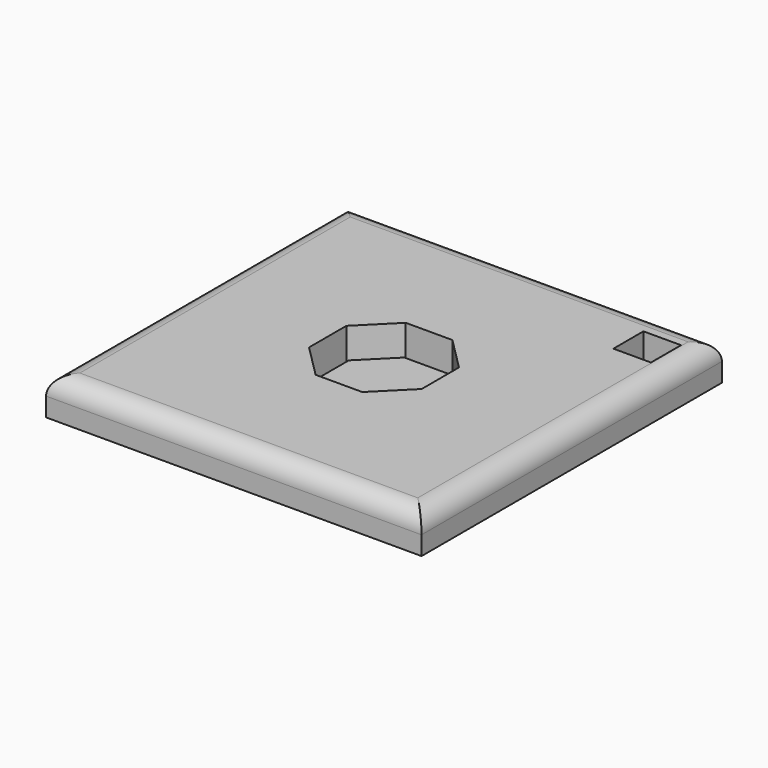
from build123d import *

# Parameters (mm, degrees)
F0_W     = 1000
F0_H     = 1000
F0_W_2   = 100
F0_H_2   = 100
F1_DEPTH = 100
F2_R     = 50
F4_DEPTH = 3
F5_DEPTH = 24
F6_SIZE  = 10


with BuildPart() as f1:
    # F0 (on Top) → F1 (new body)
    with BuildSketch(Plane.XY):
        Rectangle(F0_W, F0_H)
        Polygon((150, -62.132034356), (62.132034356, -150), (-62.132034356, -150), (-150, -62.132034356), (-150, 62.132034356), (-62.132034356, 150), (62.132034356, 150), (150, 62.132034356), align=None, mode=Mode.SUBTRACT)
        with Locations((397.8564023972, 378.8934528828)):
            Rectangle(F0_W_2, F0_H_2, mode=Mode.SUBTRACT)
    extrude(amount=F1_DEPTH)

    # F2
    f2_edges = [f1.edges().sort_by_distance(p)[0] for p in [
        (0, -500, 100),
        (500, 0, 100),
        (0, 500, 100),
        (-500, 0, 100),
    ]]
    fillet(f2_edges, radius=F2_R)


with BuildPart() as f4:
    # F3 (on face) → F4 (new body)
    with BuildSketch(Plane(origin=(0, 0, 0), x_dir=(1, 0, 0), z_dir=(0, 0, -1))):
        Polygon((-150, -62.132034356), (-62.132034356, -150), (62.132034356, -150), (150, -62.132034356), (150, 62.132034356), (62.132034356, 150), (-62.132034356, 150), (-150, 62.132034356), align=None)
    extrude(amount=F4_DEPTH)


with BuildPart() as f5:
    # F5 (new): a face of the model
    f5_faces = [f4.part.faces().sort_by_distance(p)[0] for p in [
        (0, 0, 0),
    ]]
    extrude(f5_faces, amount=F5_DEPTH)

    # F6
    f6_edges = [f5.edges().sort_by_distance(p)[0] for p in [
        (-150, 0, 24),
        (-106.066017, 106.066017, 24),
        (0, 150, 24),
        (106.066017, 106.066017, 24),
        (150, 0, 24),
        (106.066017, -106.066017, 24),
        (0, -150, 24),
        (-106.066017, -106.066017, 24),
    ]]
    chamfer(f6_edges, length=F6_SIZE)


solid = Compound([f1.part, f4.part, f5.part])
